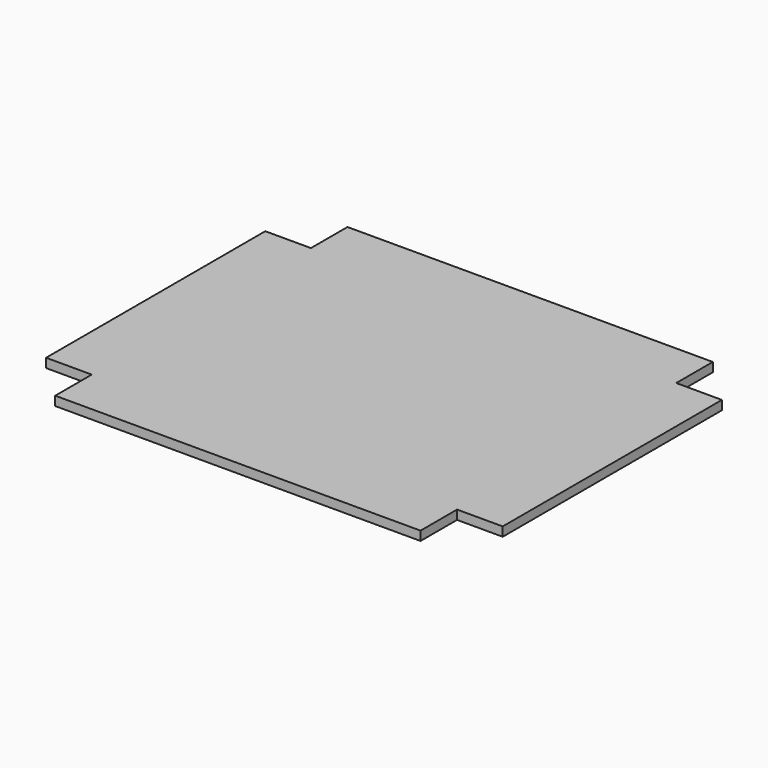
from build123d import *

# Parameters (mm, degrees)
F1_DEPTH = 200
F2_SCALE = 0.1


with BuildPart() as f1:
    # F0 (on Top) → F1 (new body)
    with BuildSketch(Plane.XY):
        Polygon((-1000, 0), (0, 0), (0, -1000), (8000, -1000), (8000, 0), (9000, 0), (9000, 6000), (8000, 6000), (8000, 7000), (0, 7000), (0, 6000), (-1000, 6000), align=None)
    extrude(amount=F1_DEPTH)


with BuildPart() as f1_1:
    # F2: moved
    add(f1.part.scale(F2_SCALE))


solid = f1_1.part
